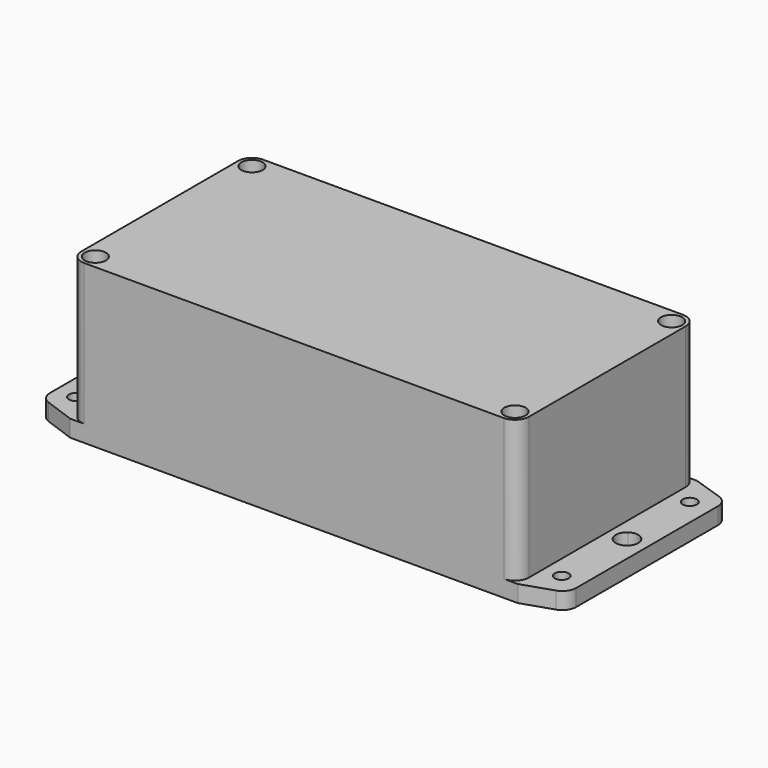
from build123d import *

# Parameters (mm, degrees)
F0_R     = 2.473433
F0_R_2   = 2.52096
F1_DEPTH = 6
F2_DEPTH = 34
F3_DEPTH = 6
F4_DEPTH = 56.6
F5_R     = 3.8
F6_DEPTH = 7.5


with BuildPart() as f1:
    # F0 (on Top) → F1 (new body)
    with BuildSketch(Plane.XY):
        with BuildLine():
            ThreePointArc((80, 35), (78.535534, 38.535534), (75, 40))
            Line((75, 40), (-75, 40))
            ThreePointArc((-75, 40), (-78.535534, 38.535534), (-80, 35))
            Line((-80, 35), (-80, -35))
            ThreePointArc((-80, -35), (-78.535534, -38.535534), (-75, -40))
            Line((-75, -40), (75, -40))
            ThreePointArc((75, -40), (78.535534, -38.535534), (80, -35))
            Line((80, -35), (80, 35))
        make_face()
        with BuildLine():
            ThreePointArc((-68, 34.468334), (-67.12132, 36.589654), (-65, 37.468334))
            Line((-65, 37.468334), (0, 37.468334))
            Line((0, 37.468334), (65, 37.468334))
            ThreePointArc((65, 37.468334), (67.12132, 36.589654), (68, 34.468334))
            Line((68, 34.468334), (68, 22.468334))
            ThreePointArc((68, 22.468334), (68.87868, 20.347013), (71, 19.468334))
            Line((71, 19.468334), (74.173963, 19.468334))
            ThreePointArc((74.173963, 19.468334), (76.295284, 18.589654), (77.173963, 16.468334))
            Line((77.173963, 16.468334), (77.173963, -16.485134))
            ThreePointArc((77.173963, -16.485134), (76.295284, -18.606454), (74.173963, -19.485134))
            Line((74.173963, -19.485134), (71, -19.485134))
            ThreePointArc((71, -19.485134), (68.87868, -20.363814), (68, -22.485134))
            Line((68, -22.485134), (68, -34.485134))
            ThreePointArc((68, -34.485134), (67.12132, -36.606454), (65, -37.485134))
            Line((65, -37.485134), (0, -37.485134))
            Line((0, -37.485134), (-65, -37.485134))
            ThreePointArc((-65, -37.485134), (-67.12132, -36.606454), (-68, -34.485134))
            Line((-68, -34.485134), (-68, -22.546155))
            ThreePointArc((-68, -22.546155), (-68.900143, -20.403586), (-71.060401, -19.546763))
            Line((-71.060401, -19.546763), (-74.027314, -19.60651))
            ThreePointArc((-74.027314, -19.60651), (-76.187572, -18.749687), (-77.087715, -16.607118))
            Line((-77.087715, -16.607118), (-77.087715, 16.468334))
            ThreePointArc((-77.087715, 16.468334), (-76.209036, 18.589654), (-74.087715, 19.468334))
            Line((-74.087715, 19.468334), (-71, 19.468334))
            ThreePointArc((-71, 19.468334), (-68.87868, 20.347013), (-68, 22.468334))
            Line((-68, 22.468334), (-68, 34.468334))
        make_face(mode=Mode.SUBTRACT)
        with BuildLine():
            Line((80, 40), (75, 40))
            ThreePointArc((75, 40), (78.535534, 38.535534), (80, 35))
            Line((80, 35), (80, -35))
            ThreePointArc((80, -35), (78.535534, -38.535534), (75, -40))
            Line((75, -40), (80, -40))
            Line((80, -40), (90.811371, -36.414082))
            ThreePointArc((90.811371, -36.414082), (93.291328, -34.594887), (94.237295, -31.668317))
            Line((94.237295, -31.668317), (94.237295, 31.668317))
            ThreePointArc((94.237295, 31.668317), (93.291328, 34.594887), (90.811371, 36.414082))
            Line((90.811371, 36.414082), (80, 40))
        make_face()
        with Locations((86.510646, -28.475207)):
            Circle(F0_R, mode=Mode.SUBTRACT)
        with BuildLine():
            ThreePointArc((90.796184, 0.321328), (90.322187, -1.570108), (89.012231, -3.014482))
            ThreePointArc((89.012231, -3.014482), (86.785394, -3.689461), (84.558557, -3.014482))
            ThreePointArc((84.558557, -3.014482), (82.774604, 0.321328), (84.558557, 3.657139))
            ThreePointArc((84.558557, 3.657139), (86.785394, 4.332118), (89.012231, 3.657139))
            ThreePointArc((89.012231, 3.657139), (90.322187, 2.212764), (90.796184, 0.321328))
        make_face(mode=Mode.SUBTRACT)
        with Locations((86.489025, 28.75185)):
            Circle(F0_R_2, mode=Mode.SUBTRACT)
        with BuildLine():
            ThreePointArc((-80, 35), (-78.535534, 38.535534), (-75, 40))
            Line((-75, 40), (-80, 40))
            Line((-80, 40), (-90.806432, 36.094616))
            ThreePointArc((-90.806432, 36.094616), (-93.199525, 34.264815), (-94.107032, 31.392273))
            Line((-94.107032, 31.392273), (-94.107032, -31.392273))
            ThreePointArc((-94.107032, -31.392273), (-93.199525, -34.264815), (-90.806432, -36.094616))
            Line((-90.806432, -36.094616), (-80, -40))
            Line((-80, -40), (-75, -40))
            ThreePointArc((-75, -40), (-78.535534, -38.535534), (-80, -35))
            Line((-80, -35), (-80, 35))
        make_face()
        with Locations((-86.929694, -28.796535)):
            Circle(F0_R, mode=Mode.SUBTRACT)
        with BuildLine():
            ThreePointArc((-84.428109, -8.279438), (-85.013896, -9.693651), (-86.428109, -10.279438))
            Line((-86.428109, -10.279438), (-86.881783, -10.279438))
            ThreePointArc((-86.881783, -10.279438), (-88.295997, -9.693651), (-88.881783, -8.279438))
            Line((-88.881783, -8.279438), (-88.881783, -3.335811))
            ThreePointArc((-88.881783, -3.335811), (-90.665736, 0), (-88.881783, 3.335811))
            Line((-88.881783, 3.335811), (-88.881783, 8.279438))
            ThreePointArc((-88.881783, 8.279438), (-88.295997, 9.693651), (-86.881783, 10.279438))
            Line((-86.881783, 10.279438), (-86.428109, 10.279438))
            ThreePointArc((-86.428109, 10.279438), (-85.013896, 9.693651), (-84.428109, 8.279438))
            Line((-84.428109, 8.279438), (-84.428109, 3.335811))
            ThreePointArc((-84.428109, 3.335811), (-83.118153, 1.891436), (-82.644156, 0))
            ThreePointArc((-82.644156, 0), (-83.118153, -1.891436), (-84.428109, -3.335811))
            Line((-84.428109, -3.335811), (-84.428109, -8.279438))
        make_face(mode=Mode.SUBTRACT)
        with Locations((-86.951315, 28.430521)):
            Circle(F0_R_2, mode=Mode.SUBTRACT)
    extrude(amount=F1_DEPTH)

    # F0 (on Top) → F2 (join)
    with BuildSketch(Plane.XY):
        with BuildLine():
            ThreePointArc((80, 35), (78.535534, 38.535534), (75, 40))
            Line((75, 40), (-75, 40))
            ThreePointArc((-75, 40), (-78.535534, 38.535534), (-80, 35))
            Line((-80, 35), (-80, -35))
            ThreePointArc((-80, -35), (-78.535534, -38.535534), (-75, -40))
            Line((-75, -40), (75, -40))
            ThreePointArc((75, -40), (78.535534, -38.535534), (80, -35))
            Line((80, -35), (80, 35))
        make_face()
        with BuildLine():
            ThreePointArc((-68, 34.468334), (-67.12132, 36.589654), (-65, 37.468334))
            Line((-65, 37.468334), (0, 37.468334))
            Line((0, 37.468334), (65, 37.468334))
            ThreePointArc((65, 37.468334), (67.12132, 36.589654), (68, 34.468334))
            Line((68, 34.468334), (68, 22.468334))
            ThreePointArc((68, 22.468334), (68.87868, 20.347013), (71, 19.468334))
            Line((71, 19.468334), (74.173963, 19.468334))
            ThreePointArc((74.173963, 19.468334), (76.295284, 18.589654), (77.173963, 16.468334))
            Line((77.173963, 16.468334), (77.173963, -16.485134))
            ThreePointArc((77.173963, -16.485134), (76.295284, -18.606454), (74.173963, -19.485134))
            Line((74.173963, -19.485134), (71, -19.485134))
            ThreePointArc((71, -19.485134), (68.87868, -20.363814), (68, -22.485134))
            Line((68, -22.485134), (68, -34.485134))
            ThreePointArc((68, -34.485134), (67.12132, -36.606454), (65, -37.485134))
            Line((65, -37.485134), (0, -37.485134))
            Line((0, -37.485134), (-65, -37.485134))
            ThreePointArc((-65, -37.485134), (-67.12132, -36.606454), (-68, -34.485134))
            Line((-68, -34.485134), (-68, -22.546155))
            ThreePointArc((-68, -22.546155), (-68.900143, -20.403586), (-71.060401, -19.546763))
            Line((-71.060401, -19.546763), (-74.027314, -19.60651))
            ThreePointArc((-74.027314, -19.60651), (-76.187572, -18.749687), (-77.087715, -16.607118))
            Line((-77.087715, -16.607118), (-77.087715, 16.468334))
            ThreePointArc((-77.087715, 16.468334), (-76.209036, 18.589654), (-74.087715, 19.468334))
            Line((-74.087715, 19.468334), (-71, 19.468334))
            ThreePointArc((-71, 19.468334), (-68.87868, 20.347013), (-68, 22.468334))
            Line((-68, 22.468334), (-68, 34.468334))
        make_face(mode=Mode.SUBTRACT)
    extrude(amount=F2_DEPTH)

    # F0 (on Top) → F3 (join)
    with BuildSketch(Plane.XY):
        with BuildLine():
            Line((0, 37.468334), (-65, 37.468334))
            ThreePointArc((-65, 37.468334), (-67.12132, 36.589654), (-68, 34.468334))
            Line((-68, 34.468334), (-68, 22.468334))
            ThreePointArc((-68, 22.468334), (-68.87868, 20.347013), (-71, 19.468334))
            Line((-71, 19.468334), (-74.087715, 19.468334))
            ThreePointArc((-74.087715, 19.468334), (-76.209036, 18.589654), (-77.087715, 16.468334))
            Line((-77.087715, 16.468334), (-77.087715, -16.607118))
            ThreePointArc((-77.087715, -16.607118), (-76.187572, -18.749687), (-74.027314, -19.60651))
            Line((-74.027314, -19.60651), (-71.060401, -19.546763))
            ThreePointArc((-71.060401, -19.546763), (-68.900143, -20.403586), (-68, -22.546155))
            Line((-68, -22.546155), (-68, -34.485134))
            ThreePointArc((-68, -34.485134), (-67.12132, -36.606454), (-65, -37.485134))
            Line((-65, -37.485134), (0, -37.485134))
            Line((0, -37.485134), (65, -37.485134))
            ThreePointArc((65, -37.485134), (67.12132, -36.606454), (68, -34.485134))
            Line((68, -34.485134), (68, -22.485134))
            ThreePointArc((68, -22.485134), (68.87868, -20.363814), (71, -19.485134))
            Line((71, -19.485134), (74.173963, -19.485134))
            ThreePointArc((74.173963, -19.485134), (76.295284, -18.606454), (77.173963, -16.485134))
            Line((77.173963, -16.485134), (77.173963, 16.468334))
            ThreePointArc((77.173963, 16.468334), (76.295284, 18.589654), (74.173963, 19.468334))
            Line((74.173963, 19.468334), (71, 19.468334))
            ThreePointArc((71, 19.468334), (68.87868, 20.347013), (68, 22.468334))
            Line((68, 22.468334), (68, 34.468334))
            ThreePointArc((68, 34.468334), (67.12132, 36.589654), (65, 37.468334))
            Line((65, 37.468334), (0, 37.468334))
        make_face()
        with BuildLine():
            ThreePointArc((80, 35), (78.535534, 38.535534), (75, 40))
            Line((75, 40), (-75, 40))
            ThreePointArc((-75, 40), (-78.535534, 38.535534), (-80, 35))
            Line((-80, 35), (-80, -35))
            ThreePointArc((-80, -35), (-78.535534, -38.535534), (-75, -40))
            Line((-75, -40), (75, -40))
            ThreePointArc((75, -40), (78.535534, -38.535534), (80, -35))
            Line((80, -35), (80, 35))
        make_face()
        with BuildLine():
            ThreePointArc((-68, 34.468334), (-67.12132, 36.589654), (-65, 37.468334))
            Line((-65, 37.468334), (0, 37.468334))
            Line((0, 37.468334), (65, 37.468334))
            ThreePointArc((65, 37.468334), (67.12132, 36.589654), (68, 34.468334))
            Line((68, 34.468334), (68, 22.468334))
            ThreePointArc((68, 22.468334), (68.87868, 20.347013), (71, 19.468334))
            Line((71, 19.468334), (74.173963, 19.468334))
            ThreePointArc((74.173963, 19.468334), (76.295284, 18.589654), (77.173963, 16.468334))
            Line((77.173963, 16.468334), (77.173963, -16.485134))
            ThreePointArc((77.173963, -16.485134), (76.295284, -18.606454), (74.173963, -19.485134))
            Line((74.173963, -19.485134), (71, -19.485134))
            ThreePointArc((71, -19.485134), (68.87868, -20.363814), (68, -22.485134))
            Line((68, -22.485134), (68, -34.485134))
            ThreePointArc((68, -34.485134), (67.12132, -36.606454), (65, -37.485134))
            Line((65, -37.485134), (0, -37.485134))
            Line((0, -37.485134), (-65, -37.485134))
            ThreePointArc((-65, -37.485134), (-67.12132, -36.606454), (-68, -34.485134))
            Line((-68, -34.485134), (-68, -22.546155))
            ThreePointArc((-68, -22.546155), (-68.900143, -20.403586), (-71.060401, -19.546763))
            Line((-71.060401, -19.546763), (-74.027314, -19.60651))
            ThreePointArc((-74.027314, -19.60651), (-76.187572, -18.749687), (-77.087715, -16.607118))
            Line((-77.087715, -16.607118), (-77.087715, 16.468334))
            ThreePointArc((-77.087715, 16.468334), (-76.209036, 18.589654), (-74.087715, 19.468334))
            Line((-74.087715, 19.468334), (-71, 19.468334))
            ThreePointArc((-71, 19.468334), (-68.87868, 20.347013), (-68, 22.468334))
            Line((-68, 22.468334), (-68, 34.468334))
        make_face(mode=Mode.SUBTRACT)
        with BuildLine():
            ThreePointArc((-80, 35), (-78.535534, 38.535534), (-75, 40))
            Line((-75, 40), (-80, 40))
            Line((-80, 40), (-90.806432, 36.094616))
            ThreePointArc((-90.806432, 36.094616), (-93.199525, 34.264815), (-94.107032, 31.392273))
            Line((-94.107032, 31.392273), (-94.107032, -31.392273))
            ThreePointArc((-94.107032, -31.392273), (-93.199525, -34.264815), (-90.806432, -36.094616))
            Line((-90.806432, -36.094616), (-80, -40))
            Line((-80, -40), (-75, -40))
            ThreePointArc((-75, -40), (-78.535534, -38.535534), (-80, -35))
            Line((-80, -35), (-80, 35))
        make_face()
        with Locations((-86.929694, -28.796535)):
            Circle(F0_R, mode=Mode.SUBTRACT)
        with BuildLine():
            ThreePointArc((-84.428109, -8.279438), (-85.013896, -9.693651), (-86.428109, -10.279438))
            Line((-86.428109, -10.279438), (-86.881783, -10.279438))
            ThreePointArc((-86.881783, -10.279438), (-88.295997, -9.693651), (-88.881783, -8.279438))
            Line((-88.881783, -8.279438), (-88.881783, -3.335811))
            ThreePointArc((-88.881783, -3.335811), (-90.665736, 0), (-88.881783, 3.335811))
            Line((-88.881783, 3.335811), (-88.881783, 8.279438))
            ThreePointArc((-88.881783, 8.279438), (-88.295997, 9.693651), (-86.881783, 10.279438))
            Line((-86.881783, 10.279438), (-86.428109, 10.279438))
            ThreePointArc((-86.428109, 10.279438), (-85.013896, 9.693651), (-84.428109, 8.279438))
            Line((-84.428109, 8.279438), (-84.428109, 3.335811))
            ThreePointArc((-84.428109, 3.335811), (-83.118153, 1.891436), (-82.644156, 0))
            ThreePointArc((-82.644156, 0), (-83.118153, -1.891436), (-84.428109, -3.335811))
            Line((-84.428109, -3.335811), (-84.428109, -8.279438))
        make_face(mode=Mode.SUBTRACT)
        with Locations((-86.951315, 28.430521)):
            Circle(F0_R_2, mode=Mode.SUBTRACT)
        with BuildLine():
            Line((80, 40), (75, 40))
            ThreePointArc((75, 40), (78.535534, 38.535534), (80, 35))
            Line((80, 35), (80, -35))
            ThreePointArc((80, -35), (78.535534, -38.535534), (75, -40))
            Line((75, -40), (80, -40))
            Line((80, -40), (90.811371, -36.414082))
            ThreePointArc((90.811371, -36.414082), (93.291328, -34.594887), (94.237295, -31.668317))
            Line((94.237295, -31.668317), (94.237295, 31.668317))
            ThreePointArc((94.237295, 31.668317), (93.291328, 34.594887), (90.811371, 36.414082))
            Line((90.811371, 36.414082), (80, 40))
        make_face()
        with Locations((86.510646, -28.475207)):
            Circle(F0_R, mode=Mode.SUBTRACT)
        with BuildLine():
            ThreePointArc((90.796184, 0.321328), (90.322187, -1.570108), (89.012231, -3.014482))
            ThreePointArc((89.012231, -3.014482), (86.785394, -3.689461), (84.558557, -3.014482))
            ThreePointArc((84.558557, -3.014482), (82.774604, 0.321328), (84.558557, 3.657139))
            ThreePointArc((84.558557, 3.657139), (86.785394, 4.332118), (89.012231, 3.657139))
            ThreePointArc((89.012231, 3.657139), (90.322187, 2.212764), (90.796184, 0.321328))
        make_face(mode=Mode.SUBTRACT)
        with Locations((86.489025, 28.75185)):
            Circle(F0_R_2, mode=Mode.SUBTRACT)
    extrude(amount=F3_DEPTH)

    # F0 (on Top) → F4 (join)
    with BuildSketch(Plane.XY):
        with BuildLine():
            ThreePointArc((80, 35), (78.535534, 38.535534), (75, 40))
            Line((75, 40), (-75, 40))
            ThreePointArc((-75, 40), (-78.535534, 38.535534), (-80, 35))
            Line((-80, 35), (-80, -35))
            ThreePointArc((-80, -35), (-78.535534, -38.535534), (-75, -40))
            Line((-75, -40), (75, -40))
            ThreePointArc((75, -40), (78.535534, -38.535534), (80, -35))
            Line((80, -35), (80, 35))
        make_face()
        with BuildLine():
            ThreePointArc((-68, 34.468334), (-67.12132, 36.589654), (-65, 37.468334))
            Line((-65, 37.468334), (0, 37.468334))
            Line((0, 37.468334), (65, 37.468334))
            ThreePointArc((65, 37.468334), (67.12132, 36.589654), (68, 34.468334))
            Line((68, 34.468334), (68, 22.468334))
            ThreePointArc((68, 22.468334), (68.87868, 20.347013), (71, 19.468334))
            Line((71, 19.468334), (74.173963, 19.468334))
            ThreePointArc((74.173963, 19.468334), (76.295284, 18.589654), (77.173963, 16.468334))
            Line((77.173963, 16.468334), (77.173963, -16.485134))
            ThreePointArc((77.173963, -16.485134), (76.295284, -18.606454), (74.173963, -19.485134))
            Line((74.173963, -19.485134), (71, -19.485134))
            ThreePointArc((71, -19.485134), (68.87868, -20.363814), (68, -22.485134))
            Line((68, -22.485134), (68, -34.485134))
            ThreePointArc((68, -34.485134), (67.12132, -36.606454), (65, -37.485134))
            Line((65, -37.485134), (0, -37.485134))
            Line((0, -37.485134), (-65, -37.485134))
            ThreePointArc((-65, -37.485134), (-67.12132, -36.606454), (-68, -34.485134))
            Line((-68, -34.485134), (-68, -22.546155))
            ThreePointArc((-68, -22.546155), (-68.900143, -20.403586), (-71.060401, -19.546763))
            Line((-71.060401, -19.546763), (-74.027314, -19.60651))
            ThreePointArc((-74.027314, -19.60651), (-76.187572, -18.749687), (-77.087715, -16.607118))
            Line((-77.087715, -16.607118), (-77.087715, 16.468334))
            ThreePointArc((-77.087715, 16.468334), (-76.209036, 18.589654), (-74.087715, 19.468334))
            Line((-74.087715, 19.468334), (-71, 19.468334))
            ThreePointArc((-71, 19.468334), (-68.87868, 20.347013), (-68, 22.468334))
            Line((-68, 22.468334), (-68, 34.468334))
        make_face(mode=Mode.SUBTRACT)
        with BuildLine():
            Line((0, 37.468334), (-65, 37.468334))
            ThreePointArc((-65, 37.468334), (-67.12132, 36.589654), (-68, 34.468334))
            Line((-68, 34.468334), (-68, 22.468334))
            ThreePointArc((-68, 22.468334), (-68.87868, 20.347013), (-71, 19.468334))
            Line((-71, 19.468334), (-74.087715, 19.468334))
            ThreePointArc((-74.087715, 19.468334), (-76.209036, 18.589654), (-77.087715, 16.468334))
            Line((-77.087715, 16.468334), (-77.087715, -16.607118))
            ThreePointArc((-77.087715, -16.607118), (-76.187572, -18.749687), (-74.027314, -19.60651))
            Line((-74.027314, -19.60651), (-71.060401, -19.546763))
            ThreePointArc((-71.060401, -19.546763), (-68.900143, -20.403586), (-68, -22.546155))
            Line((-68, -22.546155), (-68, -34.485134))
            ThreePointArc((-68, -34.485134), (-67.12132, -36.606454), (-65, -37.485134))
            Line((-65, -37.485134), (0, -37.485134))
            Line((0, -37.485134), (65, -37.485134))
            ThreePointArc((65, -37.485134), (67.12132, -36.606454), (68, -34.485134))
            Line((68, -34.485134), (68, -22.485134))
            ThreePointArc((68, -22.485134), (68.87868, -20.363814), (71, -19.485134))
            Line((71, -19.485134), (74.173963, -19.485134))
            ThreePointArc((74.173963, -19.485134), (76.295284, -18.606454), (77.173963, -16.485134))
            Line((77.173963, -16.485134), (77.173963, 16.468334))
            ThreePointArc((77.173963, 16.468334), (76.295284, 18.589654), (74.173963, 19.468334))
            Line((74.173963, 19.468334), (71, 19.468334))
            ThreePointArc((71, 19.468334), (68.87868, 20.347013), (68, 22.468334))
            Line((68, 22.468334), (68, 34.468334))
            ThreePointArc((68, 34.468334), (67.12132, 36.589654), (65, 37.468334))
            Line((65, 37.468334), (0, 37.468334))
        make_face()
    extrude(amount=F4_DEPTH)

    # F5 (on face) → F6 (cut)
    with BuildSketch(Plane.XY.offset(56.6)):
        with Locations((-75, 35)):
            Circle(F5_R)
        with Locations((-75, -35)):
            Circle(F5_R)
        with Locations((75, -35)):
            Circle(F5_R)
        with Locations((75, 35)):
            Circle(F5_R)
    extrude(amount=-F6_DEPTH, mode=Mode.SUBTRACT)


solid = f1.part
